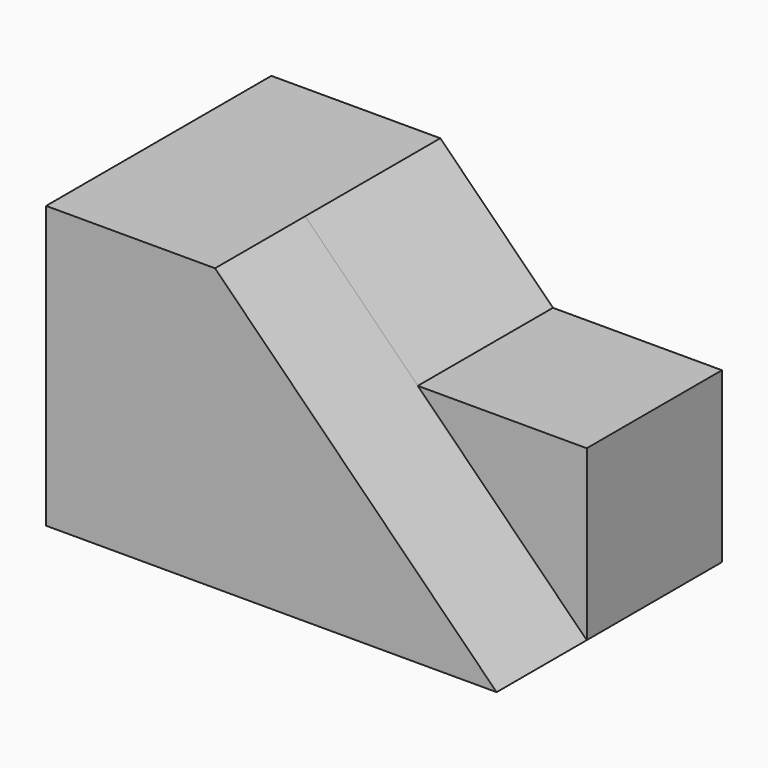
from build123d import *

# Parameters (mm, degrees)
F0_W     = 19.05
F0_H     = 31.75
F1_DEPTH = 31.75
F2_W     = 12.7
F2_H     = 31.75
F3_DEPTH = 31.75
F5_DEPTH = 25.4
F7_DEPTH = 19.05
F8_DEPTH = 19.05


with BuildPart() as f1:
    # F0 (on Front) → F1 (new body)
    with BuildSketch(Plane.XZ):
        with Locations((-53.1394695162, 15.875)):
            Rectangle(F0_W, F0_H)
    extrude(amount=F1_DEPTH)

    # F2 (on face) → F3 (join)
    with BuildSketch(Plane.YZ.offset(-43.6144695162)):
        with Locations((-25.4, 15.875)):
            Rectangle(F2_W, F2_H)
    extrude(amount=F3_DEPTH)

    # F4 (on face) → F5 (cut)
    with BuildSketch(Plane.XZ.offset(31.75)):
        Polygon((-43.6144695162, 31.75), (-11.8644695162, 0), (-11.8644695162, 31.75), align=None)
    extrude(amount=-F5_DEPTH, mode=Mode.SUBTRACT)


with BuildPart() as f7:
    # F6 (on face) → F7 (new body)
    with BuildSketch(Plane(origin=(0, -19.05, 0), x_dir=(-1, 0, 0), z_dir=(0, 1, 0))):
        Polygon((11.8644695162, 19.05), (11.8644695162, 0), (30.9144695162, 19.05), align=None)
    extrude(amount=F7_DEPTH)


with BuildPart() as f8:
    # F8 (new): a face of the model
    f8_faces = [f1.part.faces().sort_by_distance(p)[0] for p in [
        (-33.0311361829, -19.05, 10.5833333333),
    ]]
    extrude(f8_faces, amount=F8_DEPTH)


solid = Compound([f1.part, f7.part, f8.part])
